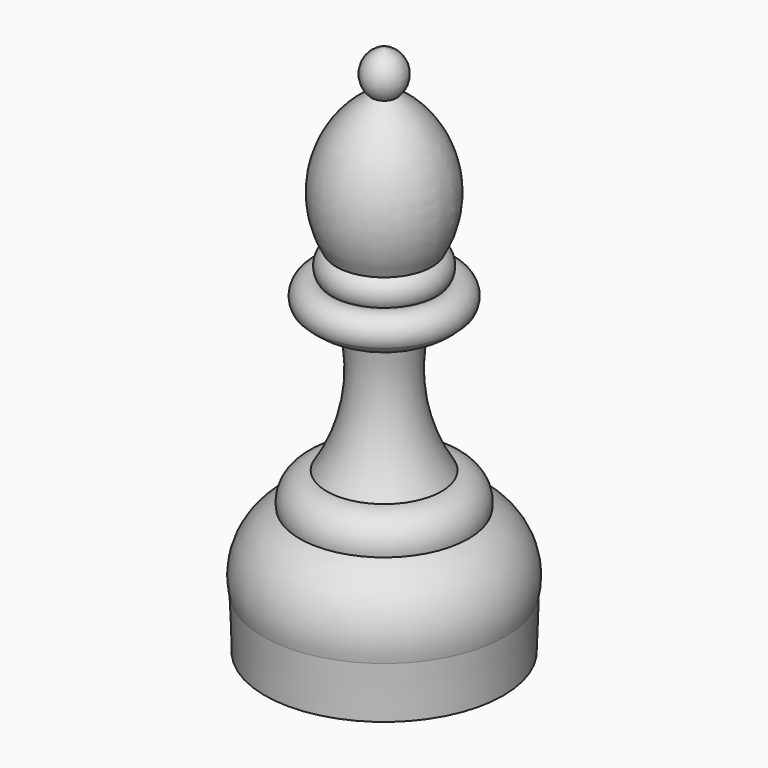
from build123d import *


with BuildPart() as f1:
    # F0 (on Front) → F1 (revolve)
    with BuildSketch(Plane.XZ):
        with BuildLine():
            Line((0, 60), (0, 0))
            Line((0, 0), (13.46447, 0))
            Line((13.46447, 0), (13.651402, 5.901333))
            ThreePointArc((13.651402, 5.901333), (13.097587, 10.841904), (9.538841, 14.313398))
            ThreePointArc((9.538841, 14.313398), (8.852469, 16.864152), (6.478026, 18.021508))
            ThreePointArc((6.478026, 18.021508), (3.790177, 24.907436), (3.966552, 32.297255))
            ThreePointArc((3.966552, 32.297255), (6.269041, 32.989261), (8.192008, 34.432356))
            ThreePointArc((8.192008, 34.432356), (7.996359, 36.588717), (5.930468, 37.236998))
            ThreePointArc((5.930468, 37.236998), (6.237246, 38.724179), (5.412945, 39.999463))
            ThreePointArc((5.412945, 39.999463), (6.542759, 48.546486), (1.394901, 55.462239))
            ThreePointArc((1.394901, 55.462239), (2.164955, 58.182229), (0, 60))
        make_face()
    revolve(axis=Axis((0, 0, 30), (0, 0, -1)))


solid = f1.part
